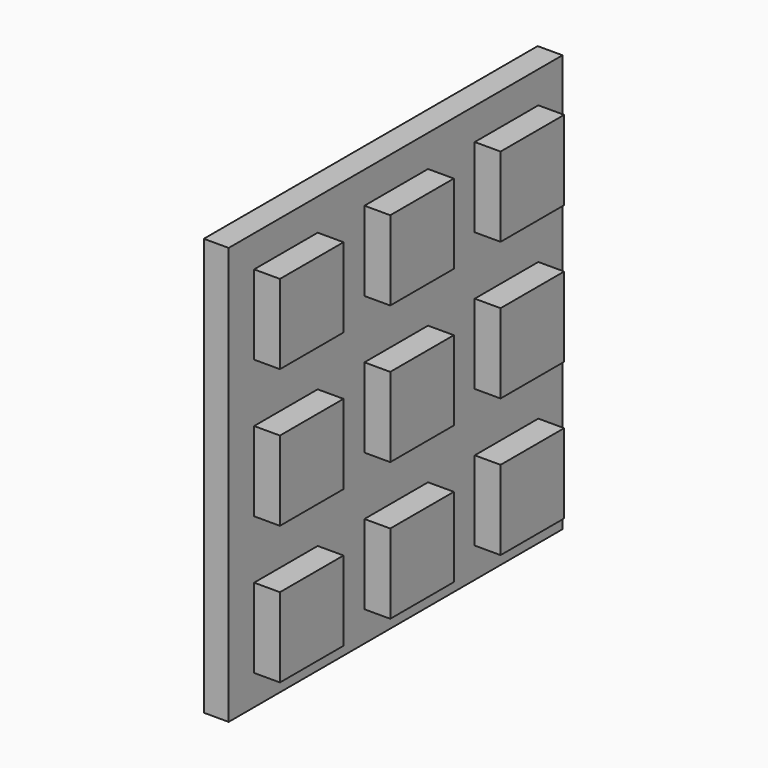
from build123d import *

# Parameters (mm, degrees)
F0_W     = 26.67
F0_H     = 26.67
F1_DEPTH = 1.5875
F2_W     = 5.08
F2_H     = 5.08
F3_DEPTH = 1.651


with BuildPart() as f1:
    # F0 (on Right) → F1 (new body)
    with BuildSketch(Plane.YZ):
        with Locations((13.335, 13.335)):
            Rectangle(F0_W, F0_H)
    extrude(amount=F1_DEPTH)

    # F2 (on face) → F3 (join)
    with BuildSketch(Plane.YZ.offset(1.5875)):
        with Locations((4.572, 22.098)):
            Rectangle(F2_W, F2_H)
        with Locations((4.572, 13.2842)):
            Rectangle(F2_W, F2_H)
        with Locations((4.572, 4.4704)):
            Rectangle(F2_W, F2_H)
        with Locations((13.3858, 22.098)):
            Rectangle(F2_W, F2_H)
        with Locations((13.3858, 13.2842)):
            Rectangle(F2_W, F2_H)
        with Locations((13.3858, 4.4704)):
            Rectangle(F2_W, F2_H)
        with Locations((22.1996, 22.098)):
            Rectangle(F2_W, F2_H)
        with Locations((22.1996, 13.2842)):
            Rectangle(F2_W, F2_H)
        with Locations((22.1996, 4.4704)):
            Rectangle(F2_W, F2_H)
    extrude(amount=F3_DEPTH)


solid = f1.part
